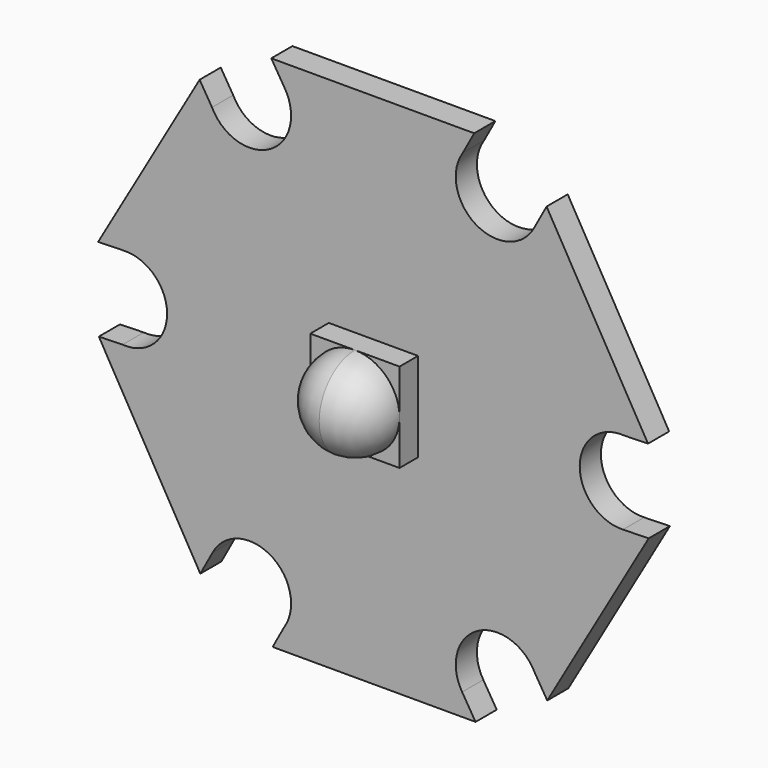
from build123d import *

# Parameters (mm, degrees)
F1_DEPTH = 1.016
F3_DEPTH = 25.4
F4_W     = 3.429
F4_H     = 3.429
F5_DEPTH = 0.889


with BuildPart() as f1:
    # F0 (on Front) → F1 (new body)
    with BuildSketch(Plane.XZ):
        Polygon((11.482458, 0), (5.741229, 9.9441), (-5.741229, 9.9441), (-11.482458, 0), (-5.741229, -9.9441), (5.741229, -9.9441), align=None)
    extrude(amount=F1_DEPTH)

    # F2 (on face) → F3 (cut)
    with BuildSketch(Plane.XZ.offset(1.016)):
        with BuildLine():
            ThreePointArc((-6.199423, 7.544696), (-4.401061, 6.690046), (-3.1623, 8.248892))
            ThreePointArc((-3.1623, 8.248892), (-3.225023, 8.692518), (-3.408275, 9.101367))
            ThreePointArc((-3.408275, 9.101367), (-5.541933, 9.646434), (-6.199423, 7.544696))
        make_face()
        with BuildLine():
            ThreePointArc((-6.199423, 7.544696), (-5.541933, 9.646434), (-3.408275, 9.101367))
            Line((-3.408275, 9.101367), (-6.593504, 14.310177))
            Line((-6.593504, 14.310177), (-9.751506, 13.353422))
            Line((-9.751506, 13.353422), (-6.199423, 7.544696))
        make_face()
        with BuildLine():
            ThreePointArc((-9.63361, -1.59651), (-8.432562, -1.169281), (-7.9248, 0))
            ThreePointArc((-7.9248, 0), (-8.415319, 1.15293), (-9.586153, 1.599031))
            ThreePointArc((-9.586153, 1.599031), (-11.125024, 0.023762), (-9.63361, -1.59651))
        make_face()
        with BuildLine():
            ThreePointArc((-9.63361, -1.59651), (-11.125024, 0.023762), (-9.586153, 1.599031))
            Line((-9.586153, 1.599031), (-15.689729, 1.444947))
            Line((-15.689729, 1.444947), (-16.440156, -1.768341))
            Line((-16.440156, -1.768341), (-9.63361, -1.59651))
        make_face()
        with BuildLine():
            ThreePointArc((-3.434187, -9.141206), (-3.23178, -8.7153), (-3.1623, -8.248892))
            ThreePointArc((-3.1623, -8.248892), (-4.377953, -6.695585), (-6.177878, -7.502336))
            ThreePointArc((-6.177878, -7.502336), (-5.58309, -9.622672), (-3.434187, -9.141206))
        make_face()
        with BuildLine():
            ThreePointArc((-3.434187, -9.141206), (-5.58309, -9.622672), (-6.177878, -7.502336))
            Line((-6.177878, -7.502336), (-9.096225, -12.865231))
            Line((-9.096225, -12.865231), (-6.68865, -15.121763))
            Line((-6.68865, -15.121763), (-3.434187, -9.141206))
        make_face()
        with BuildLine():
            ThreePointArc((3.408275, -9.101367), (5.206127, -9.786369), (6.3627, -8.248892))
            ThreePointArc((6.3627, -8.248892), (6.321346, -7.887453), (6.199423, -7.544696))
            ThreePointArc((6.199423, -7.544696), (3.983067, -6.85135), (3.408275, -9.101367))
        make_face()
        with BuildLine():
            ThreePointArc((6.199423, -7.544696), (6.321346, -7.887453), (6.3627, -8.248892))
            ThreePointArc((6.3627, -8.248892), (5.206127, -9.786369), (3.408275, -9.101367))
            Line((3.408275, -9.101367), (6.593504, -14.310177))
            Line((6.593504, -14.310177), (9.751506, -13.353422))
            Line((9.751506, -13.353422), (6.199423, -7.544696))
        make_face()
        with BuildLine():
            ThreePointArc((9.586153, -1.599031), (10.67793, -1.109681), (11.1252, 0))
            ThreePointArc((11.1252, 0), (10.694281, 1.092438), (9.63361, 1.59651))
            ThreePointArc((9.63361, 1.59651), (7.924976, 0.023762), (9.586153, -1.599031))
        make_face()
        with BuildLine():
            ThreePointArc((9.63361, 1.59651), (10.694281, 1.092438), (11.1252, 0))
            ThreePointArc((11.1252, 0), (10.67793, -1.109681), (9.586153, -1.599031))
            Line((9.586153, -1.599031), (15.689729, -1.444947))
            Line((15.689729, -1.444947), (16.440156, 1.768341))
            Line((16.440156, 1.768341), (9.63361, 1.59651))
        make_face()
        with BuildLine():
            ThreePointArc((6.177878, 7.502336), (6.315807, 7.864345), (6.3627, 8.248892))
            ThreePointArc((6.3627, 8.248892), (5.228908, 9.779612), (3.434187, 9.141206))
            ThreePointArc((3.434187, 9.141206), (3.94191, 6.875112), (6.177878, 7.502336))
        make_face()
        with BuildLine():
            ThreePointArc((3.434187, 9.141206), (5.228908, 9.779612), (6.3627, 8.248892))
            ThreePointArc((6.3627, 8.248892), (6.315807, 7.864345), (6.177878, 7.502336))
            Line((6.177878, 7.502336), (9.096225, 12.865231))
            Line((9.096225, 12.865231), (6.68865, 15.121763))
            Line((6.68865, 15.121763), (3.434187, 9.141206))
        make_face()
    extrude(amount=-F3_DEPTH, mode=Mode.SUBTRACT)

    # F4 (on face) → F5 (join)
    with BuildSketch(Plane.XZ.offset(1.016)):
        Rectangle(F4_W, F4_H)
    extrude(amount=F5_DEPTH)

    # F6 (on face) → F7 (revolve)
    with BuildSketch(Plane.XZ.offset(1.905)):
        with BuildLine():
            Line((-1.7145, 0), (1.7145, 0))
            ThreePointArc((1.7145, 0), (1.212335, 1.212335), (0, 1.7145))
            ThreePointArc((0, 1.7145), (-1.212335, 1.212335), (-1.7145, 0))
        make_face()
    revolve(axis=Axis((0, -1.905, 0), (1, 0, 0)))


solid = f1.part
